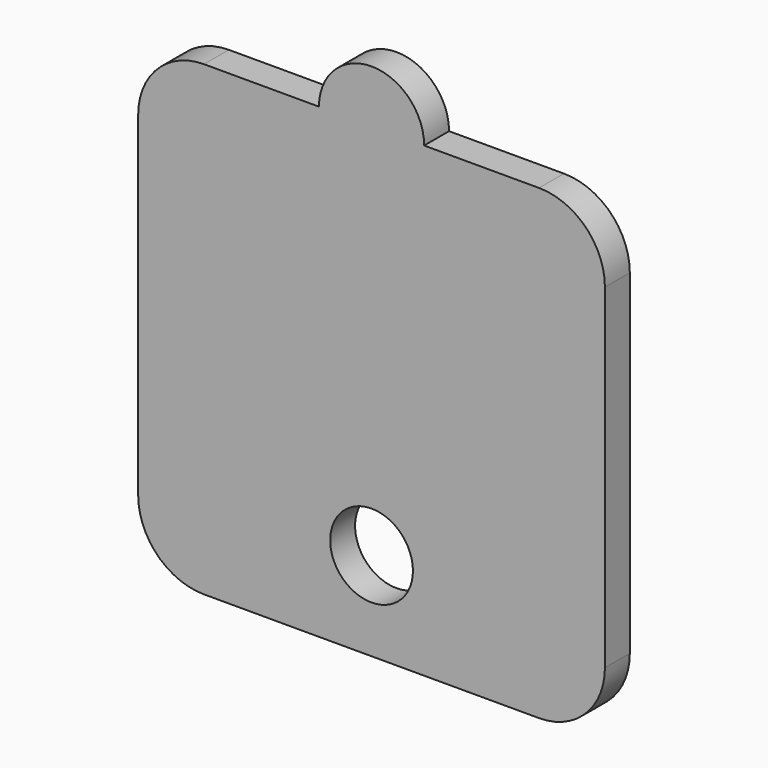
from build123d import *

# Parameters (mm, degrees)
F0_R     = 3.9882187516
F1_DEPTH = 3


with BuildPart() as f1:
    # F0 (on Front) → F1 (new body)
    with BuildSketch(Plane.XZ):
        with BuildLine():
            ThreePointArc((22.5, 16.15), (20.6401280605, 20.6401280605), (16.15, 22.5))
            Line((16.15, 22.5), (5.0711838848, 22.5))
            ThreePointArc((5.0711838848, 22.5), (0, 17.4288161152), (-5.0711838848, 22.5))
            Line((-5.0711838848, 22.5), (-16.15, 22.5))
            ThreePointArc((-16.15, 22.5), (-20.6401280605, 20.6401280605), (-22.5, 16.15))
            Line((-22.5, 16.15), (-22.5, -16.15))
            ThreePointArc((-22.5, -16.15), (-20.6401280605, -20.6401280605), (-16.15, -22.5))
            Line((-16.15, -22.5), (16.15, -22.5))
            ThreePointArc((16.15, -22.5), (20.6401280605, -20.6401280605), (22.5, -16.15))
            Line((22.5, -16.15), (22.5, 16.15))
        make_face()
        with Locations((0, -13.9503730461)):
            Circle(F0_R, mode=Mode.SUBTRACT)
        with BuildLine():
            Line((-5.0711838848, 22.5), (5.0711838848, 22.5))
            ThreePointArc((5.0711838848, 22.5), (0, 27.5711838848), (-5.0711838848, 22.5))
        make_face()
        with BuildLine():
            ThreePointArc((-5.0711838848, 22.5), (0, 17.4288161152), (5.0711838848, 22.5))
            Line((5.0711838848, 22.5), (-5.0711838848, 22.5))
        make_face()
    extrude(amount=F1_DEPTH)


solid = f1.part
